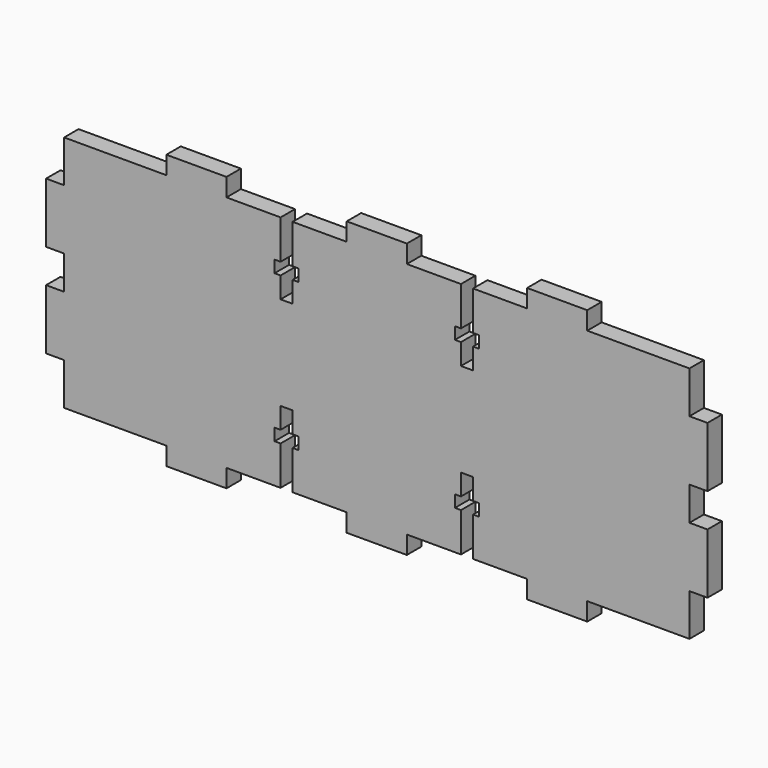
from build123d import *

# Parameters (mm, degrees)
F1_DEPTH = 3


with BuildPart() as f1:
    # F0 (on Front) → F1 (new body)
    with BuildSketch(Plane.XZ):
        Polygon((-52.314732, 2.8), (-52.314732, 0), (-52.314732, -2.8), (-55.314732, -2.8), (-55.314732, -12.8), (-52.314732, -12.8), (-52.314732, -19.8), (-35.314732, -19.8), (-35.314732, -22.8), (-25.314732, -22.8), (-25.314732, -19.8), (-16.314732, -19.8), (-16.314732, -13.3), (-17.314732, -13.3), (-17.314732, -11.3), (-16.314732, -11.3), (-16.314732, -7.8), (-14.314732, -7.8), (-14.314732, -11.3), (-13.314732, -11.3), (-13.314732, -13.3), (-14.314732, -13.3), (-14.314732, -19.8), (-5.314732, -19.8), (-5.314732, -22.8), (-0.314732, -22.8), (4.685268, -22.8), (4.685268, -19.8), (13.685268, -19.8), (13.685268, -13.3), (12.685268, -13.3), (12.685268, -11.3), (13.685268, -11.3), (13.685268, -7.8), (15.685268, -7.8), (15.685268, -11.3), (16.685268, -11.3), (16.685268, -13.3), (15.685268, -13.3), (15.685268, -19.8), (24.685268, -19.8), (24.685268, -22.8), (34.685268, -22.8), (34.685268, -19.8), (51.685268, -19.8), (51.685268, -12.8), (54.685268, -12.8), (54.685268, -2.8), (51.685268, -2.8), (51.685268, 0), (51.685268, 2.8), (54.685268, 2.8), (54.685268, 12.8), (51.685268, 12.8), (51.685268, 19.8), (34.685268, 19.8), (34.685268, 22.8), (24.685268, 22.8), (24.685268, 19.8), (15.685268, 19.8), (15.685268, 13.3), (16.685268, 13.3), (16.685268, 11.3), (15.685268, 11.3), (15.685268, 7.8), (13.685268, 7.8), (13.685268, 11.3), (12.685268, 11.3), (12.685268, 13.3), (13.685268, 13.3), (13.685268, 19.8), (4.685268, 19.8), (4.685268, 22.8), (-0.314732, 22.8), (-5.314732, 22.8), (-5.314732, 19.8), (-14.314732, 19.8), (-14.314732, 13.3), (-13.314732, 13.3), (-13.314732, 11.3), (-14.314732, 11.3), (-14.314732, 7.8), (-16.314732, 7.8), (-16.314732, 11.3), (-17.314732, 11.3), (-17.314732, 13.3), (-16.314732, 13.3), (-16.314732, 19.8), (-25.314732, 19.8), (-25.314732, 22.8), (-35.314732, 22.8), (-35.314732, 19.8), (-52.314732, 19.8), (-52.314732, 12.8), (-55.314732, 12.8), (-55.314732, 2.8), align=None)
    extrude(amount=F1_DEPTH)


solid = f1.part
